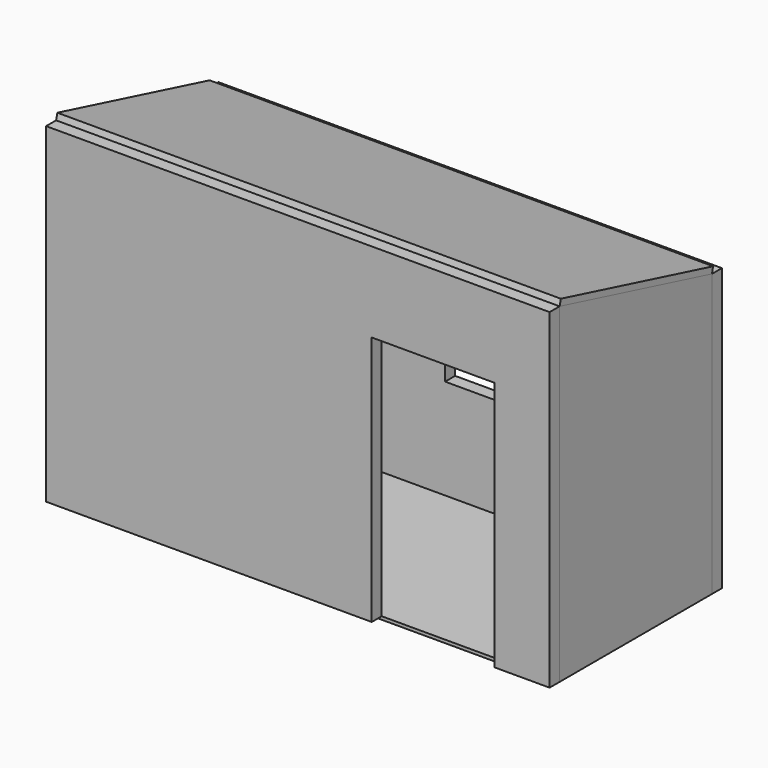
from build123d import *

# Parameters (mm, degrees)
F1_DEPTH  = 25
F5_DEPTH  = 100
F7_DEPTH  = 100
F9_DEPTH  = 100
F10_W     = 4020
F10_H     = 2250
F10_W_2   = 890
F10_H_2   = 1220
F11_DEPTH = 100
F13_DEPTH = 4020


with BuildPart() as f1:
    # F0 (on Top) → F1 (new body)
    with BuildSketch(Plane.XY):
        Polygon((0, 420), (0, 0), (2500, 0), (3480, 0), (3820, 0), (3820, 1520), (2680, 1520), (1790, 1520), (0, 1520), (0, 1400), align=None)
    extrude(amount=-F1_DEPTH)


with BuildPart() as f5:
    # F4 (on Right) → F5 (new body)
    with BuildSketch(Plane.YZ):
        Polygon((1400, 0), (1520, 0), (1520, 2250), (0, 2640), (0, 0), (420, 0), (420, 2000), (1400, 2000), align=None)
    extrude(amount=-F5_DEPTH)


with BuildPart() as f7:
    # F6 (on face) → F7 (new body)
    with BuildSketch(Plane.YZ.offset(3820)):
        Polygon((0, 2640), (0, 0), (1520, 0), (1520, 2250), align=None)
    extrude(amount=F7_DEPTH)


with BuildPart() as f9:
    # F8 (on Front) → F9 (new body)
    with BuildSketch(Plane.XZ):
        Polygon((3920, 2640), (-100, 2640), (-100, 0), (2500, 0), (2500, 2000), (3480, 2000), (3480, 0), (3920, 0), align=None)
    extrude(amount=F9_DEPTH)


with BuildPart() as f11:
    # F10 (on face) → F11 (new body)
    with BuildSketch(Plane(origin=(0, 1520, 0), x_dir=(-1, 0, 0), z_dir=(0, 1, 0))):
        with Locations((-1910, 1125)):
            Rectangle(F10_W, F10_H)
        with Locations((-2235, 1410)):
            Rectangle(F10_W_2, F10_H_2, mode=Mode.SUBTRACT)
    extrude(amount=F11_DEPTH)


with BuildPart() as f13:
    # F12 (on face) → F13 (new body, through all)
    with BuildSketch(Plane(origin=(-100, 0, 0), x_dir=(0, -1, 0), z_dir=(-1, 0, 0))):
        Polygon((-12.426433, 2688.431227), (-1532.426433, 2298.431227), (-1520, 2250), (0, 2640), align=None)
    extrude(amount=-F13_DEPTH)


solid = Compound([f1.part, f5.part, f7.part, f9.part, f11.part, f13.part])
